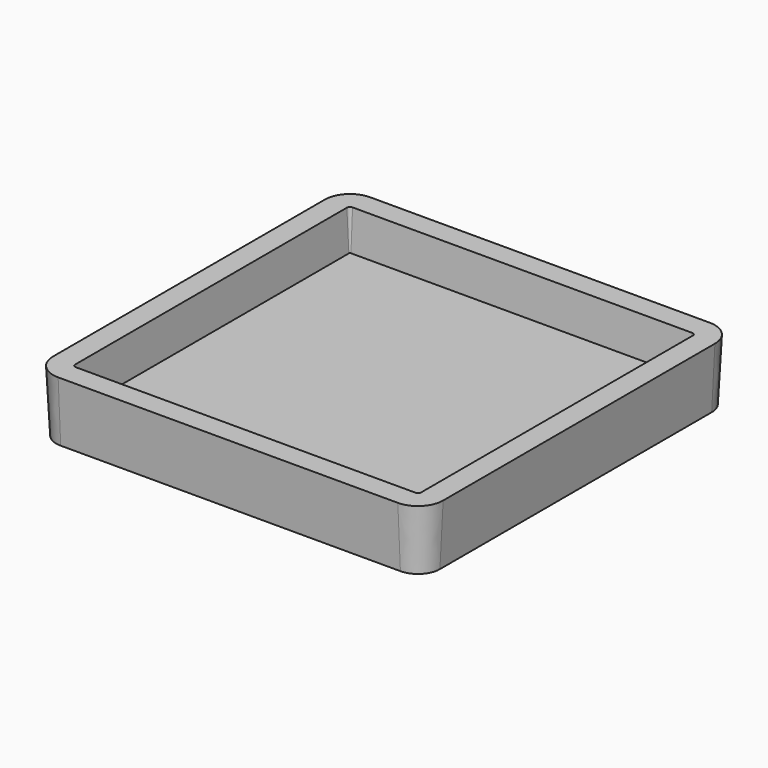
from build123d import *

# Parameters (mm, degrees)
F1_DEPTH = 2.2225
F1_TAPER = -3
F2_T     = -0.79375


with BuildPart() as f1:
    # F0 (on Top) → F1 (new body)
    with BuildSketch(Plane.XY):
        with BuildLine():
            ThreePointArc((6.9342, 6.14045), (6.7017160076, 6.7017160076), (6.14045, 6.9342))
            Line((6.14045, 6.9342), (-6.14045, 6.9342))
            ThreePointArc((-6.14045, 6.9342), (-6.7017160076, 6.7017160076), (-6.9342, 6.14045))
            Line((-6.9342, 6.14045), (-6.9342, -6.14045))
            ThreePointArc((-6.9342, -6.14045), (-6.7017160076, -6.7017160076), (-6.14045, -6.9342))
            Line((-6.14045, -6.9342), (6.14045, -6.9342))
            ThreePointArc((6.14045, -6.9342), (6.7017160076, -6.7017160076), (6.9342, -6.14045))
            Line((6.9342, -6.14045), (6.9342, 6.14045))
        make_face()
    extrude(amount=F1_DEPTH, taper=F1_TAPER)

    # F2
    f2_openings = [f1.faces().sort_by_distance(p)[0] for p in [
        (0, 0, 2.2225),
    ]]
    offset(amount=F2_T, openings=f2_openings)


solid = f1.part
